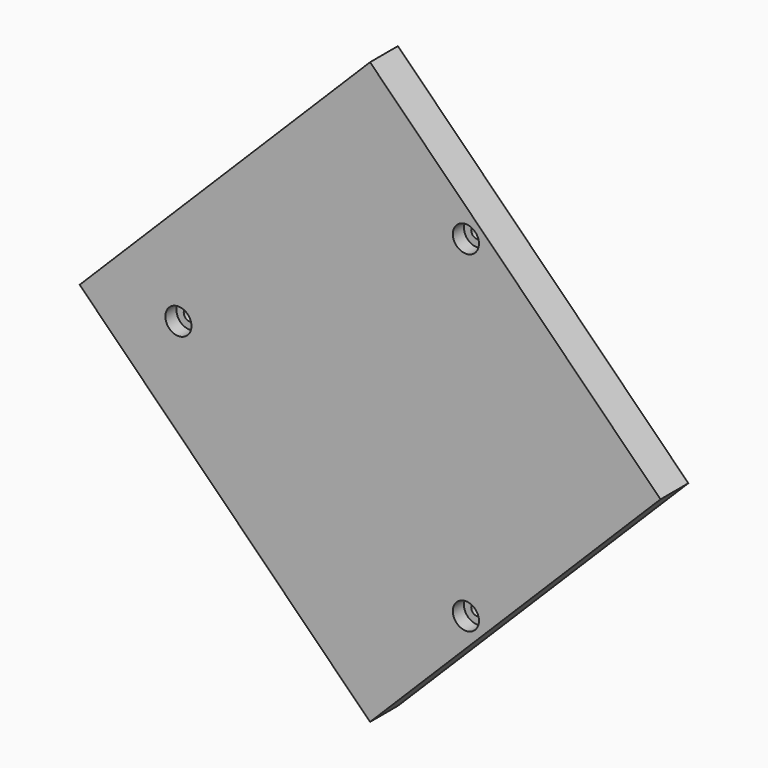
from build123d import *

# Parameters (mm, degrees)
F1_DEPTH       = 15
F3_D           = 5
F3_CBORE_D     = 11.25
F3_CBORE_DEPTH = 6
F4_R           = 8.05
F5_DEPTH       = 2


with BuildPart() as f1:
    # F0 (on Front) → F1 (new body)
    with BuildSketch(Plane.XZ):
        Polygon((125, 0), (0, 125), (-125, 0), (0, -125), align=None)
    extrude(amount=F1_DEPTH)

    # F3 (through all)
    with Locations(Plane.XZ.offset(15)):
        with Locations((-82.5, 0), (41.25, -71.4470958122), (41.25, 71.4470958122)):
            CounterBoreHole(F3_D / 2, F3_CBORE_D / 2, F3_CBORE_DEPTH)

    # F4 (on face) → F5 (cut)
    with BuildSketch(Plane(origin=(0, 0, 0), x_dir=(-1, 0, 0), z_dir=(0, 1, 0))):
        with Locations((82.5, 0)):
            Circle(F4_R)
        with Locations((-41.25, -71.4470958122)):
            Circle(F4_R)
        with Locations((-41.25, 71.4470958122)):
            Circle(F4_R)
    extrude(amount=-F5_DEPTH, mode=Mode.SUBTRACT)


solid = f1.part
